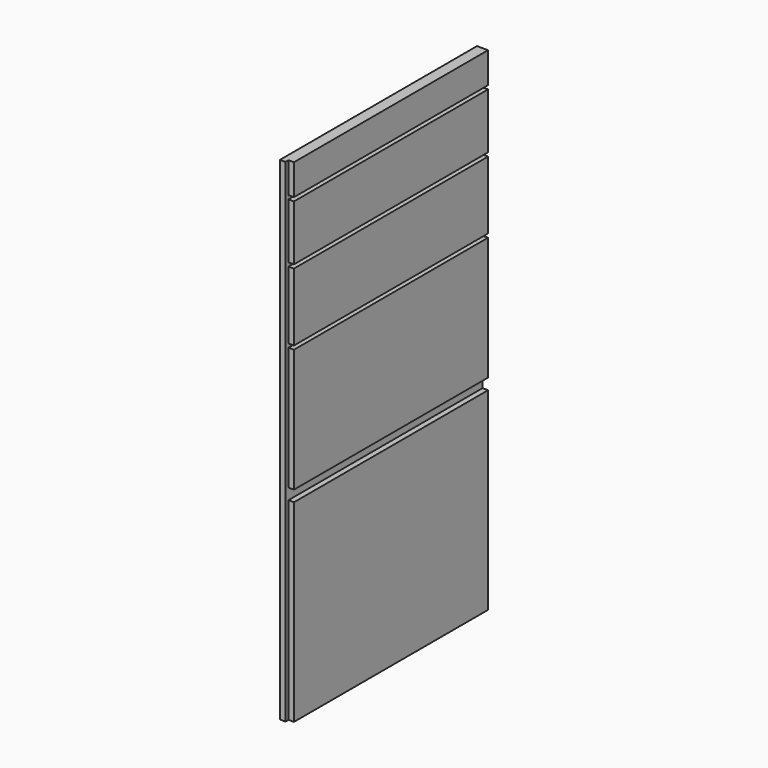
from build123d import *

# Parameters (mm, degrees)
F0_W     = 394
F0_H     = 50
F1_DEPTH = 18
F0_H_2   = 90
F0_H_3   = 110
F0_H_4   = 200
F0_W_2   = 6
F0_H_5   = 314
F0_H_6   = 18
F0_H_7   = 6
F2_DEPTH = 9


with BuildPart() as f1:
    # F0 (on Right) → F1 (new body)
    with BuildSketch(Plane.YZ):
        with Locations((203, 775)):
            Rectangle(F0_W, F0_H)
    extrude(amount=F1_DEPTH)



with BuildPart() as f1b:
    # F0 (on Right) → F1, piece 2 (new body)
    with BuildSketch(Plane.YZ):
        with Locations((203, 699)):
            Rectangle(F0_W, F0_H_2)
    extrude(amount=F1_DEPTH)


with BuildPart() as f1c:
    # F0 (on Right) → F1, piece 3 (new body)
    with BuildSketch(Plane.YZ):
        with Locations((203, 593)):
            Rectangle(F0_W, F0_H_3)
    extrude(amount=F1_DEPTH)


with BuildPart() as f1d:
    # F0 (on Right) → F1, piece 4 (new body)
    with BuildSketch(Plane.YZ):
        with Locations((203, 432)):
            Rectangle(F0_W, F0_H_4)
    extrude(amount=F1_DEPTH)


with BuildPart() as f1e:
    # F0 (on Right) → F1, piece 5 (new body)
    with BuildSketch(Plane.YZ):
        Polygon((6, 314), (6, 0), (394, 0), (400, 0), (400, 314), align=None)
    extrude(amount=F1_DEPTH)


with BuildPart() as f1_1:
    add(f1.part)

    add(f1b.part)  # F2 merges F1b

    add(f1c.part)  # F2 merges F1c

    add(f1d.part)  # F2 merges F1d

    add(f1e.part)  # F2 merges F1e
    # F0 (on Right) → F2 (join)
    with BuildSketch(Plane.YZ):
        with Locations((3, 157)):
            Rectangle(F0_W_2, F0_H_5)
        with Locations((3, 323)):
            Rectangle(F0_W_2, F0_H_6)
        with Locations((203, 323)):
            Rectangle(F0_W, F0_H_6)
        with Locations((3, 432)):
            Rectangle(F0_W_2, F0_H_4)
        with Locations((203, 535)):
            Rectangle(F0_W, F0_H_7)
        with Locations((203, 651)):
            Rectangle(F0_W, F0_H_7)
        with Locations((3, 593)):
            Rectangle(F0_W_2, F0_H_3)
        with Locations((3, 651)):
            Rectangle(F0_W_2, F0_H_7)
        with Locations((3, 775)):
            Rectangle(F0_W_2, F0_H)
        with Locations((3, 747)):
            Rectangle(F0_W_2, F0_H_7)
        with Locations((3, 699)):
            Rectangle(F0_W_2, F0_H_2)
        with Locations((203, 747)):
            Rectangle(F0_W, F0_H_7)
        with Locations((3, 535)):
            Rectangle(F0_W_2, F0_H_7)
    extrude(amount=F2_DEPTH)


solid = f1_1.part
